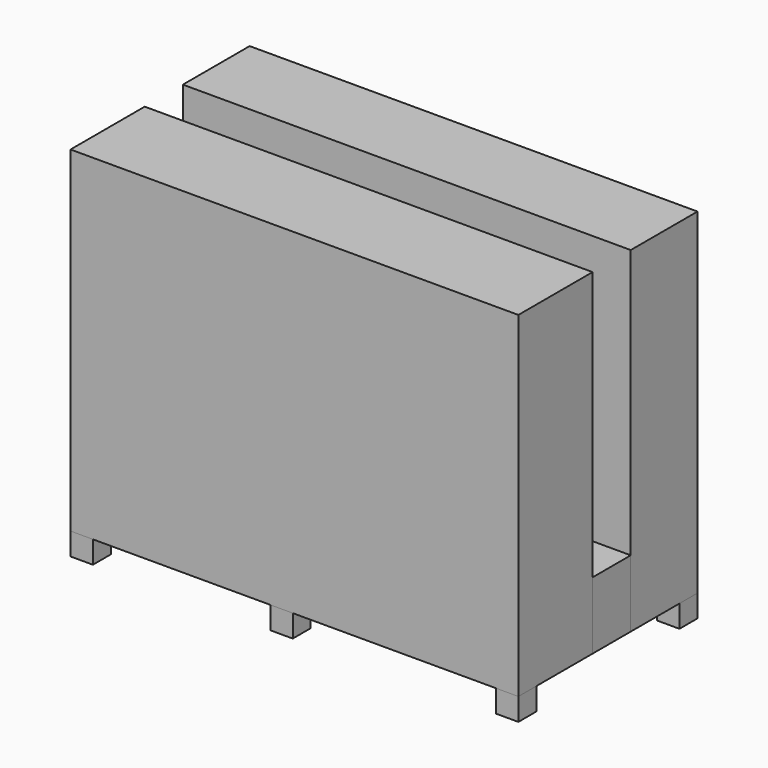
from build123d import *

# Parameters (mm, degrees)
F0_W     = 20
F0_H     = 3.72645418
F1_DEPTH = 15
F0_H_2   = 4.14354582
F0_H_3   = 2.13
F2_DEPTH = 3
F3_W     = 1
F3_H     = 1
F4_DEPTH = 1
F3_W_2   = 0.9941177852


with BuildPart() as f1:
    # F0 (on Top) → F1 (new body)
    with BuildSketch(Plane.XY):
        with Locations((-15.1428561658, 11.0407051996)):
            Rectangle(F0_W, F0_H)
    extrude(amount=F1_DEPTH)


with BuildPart() as f1b:
    # F0 (on Top) → F1, piece 2 (new body)
    with BuildSketch(Plane.XY):
        with Locations((-15.1428561658, 4.9757051996)):
            Rectangle(F0_W, F0_H_2)
    extrude(amount=F1_DEPTH)


with BuildPart() as f2:
    # F0 (on Top) → F2 (new body)
    with BuildSketch(Plane.XY):
        with Locations((-15.1428561658, 8.1124781096)):
            Rectangle(F0_W, F0_H_3)
    extrude(amount=F2_DEPTH)


with BuildPart() as f4:
    # F3 (on face) → F4 (new body)
    with BuildSketch(Plane.XY):
        with Locations((-24.6428075135, 3.4039124493)):
            Rectangle(F3_W, F3_H)
    extrude(amount=-F4_DEPTH)


with BuildPart() as f4b:
    # F3 (on face) → F4, piece 2 (new body)
    with BuildSketch(Plane.XY):
        with Locations((-5.6428075135, 3.4039124493)):
            Rectangle(F3_W, F3_H)
    extrude(amount=-F4_DEPTH)


with BuildPart() as f4c:
    # F3 (on face) → F4, piece 3 (new body)
    with BuildSketch(Plane.XY):
        with Locations((-5.6457486209, 12.4039124493)):
            Rectangle(F3_W_2, F3_H)
    extrude(amount=-F4_DEPTH)


with BuildPart() as f4d:
    # F3 (on face) → F4, piece 4 (new body)
    with BuildSketch(Plane.XY):
        with Locations((-11.2716742679, 7.7580650449)):
            Rectangle(F3_W, F3_H)
    extrude(amount=-F4_DEPTH)


with BuildPart() as f4e:
    # F3 (on face) → F4, piece 5 (new body)
    with BuildSketch(Plane.XY):
        with Locations((-20.1854846328, 7.7580650449)):
            Rectangle(F3_W, F3_H)
    extrude(amount=-F4_DEPTH)


with BuildPart() as f4f:
    # F3 (on face) → F4, piece 6 (new body)
    with BuildSketch(Plane.XY):
        with Locations((-24.6428075135, 12.4039124493)):
            Rectangle(F3_W, F3_H)
    extrude(amount=-F4_DEPTH)


with BuildPart() as f4g:
    # F3 (on face) → F4, piece 7 (new body)
    with BuildSketch(Plane.XY):
        with Locations((-15.7172392011, 12.4039124493)):
            Rectangle(F3_W, F3_H)
    extrude(amount=-F4_DEPTH)


with BuildPart() as f4h:
    # F3 (on face) → F4, piece 8 (new body)
    with BuildSketch(Plane.XY):
        with Locations((-15.7172392011, 3.4039124493)):
            Rectangle(F3_W, F3_H)
    extrude(amount=-F4_DEPTH)


solid = Compound([f1.part, f1b.part, f2.part, f4.part, f4b.part, f4c.part, f4d.part, f4e.part, f4f.part, f4g.part, f4h.part])
